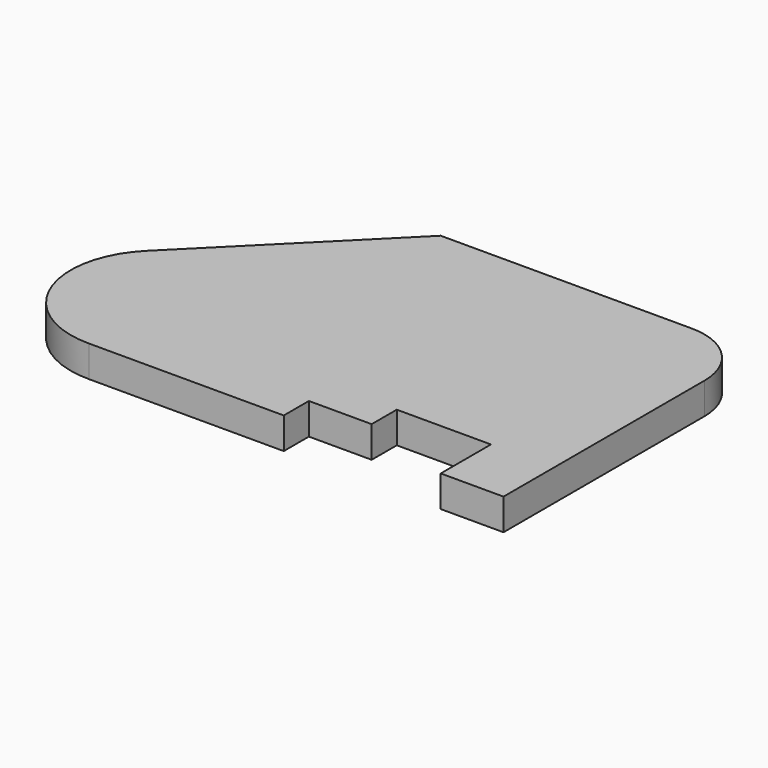
from build123d import *

# Parameters (mm, degrees)
F1_DEPTH = 5


with BuildPart() as f1:
    # F0 (on Top) → F1 (new body)
    with BuildSketch(Plane.XY):
        with BuildLine():
            Line((16.045627, 26.045627), (-23.954373, 26.045627))
            Line((-23.954373, 26.045627), (-50, 0))
            ThreePointArc((-50, 0), (-53.018162, -15.349291), (-39.954373, -23.954373))
            Line((-39.954373, -23.954373), (-8.954373, -23.954373))
            Line((-8.954373, -23.954373), (-8.954373, -18.954373))
            Line((-8.954373, -18.954373), (1.045627, -18.954373))
            Line((1.045627, -18.954373), (1.045627, -13.954373))
            Line((1.045627, -13.954373), (16.045627, -13.954373))
            Line((16.045627, -13.954373), (16.045627, -23.954373))
            Line((16.045627, -23.954373), (26.045627, -23.954373))
            Line((26.045627, -23.954373), (26.045627, 16.045627))
            ThreePointArc((26.045627, 16.045627), (23.116695, 23.116695), (16.045627, 26.045627))
        make_face()
    extrude(amount=F1_DEPTH)


solid = f1.part
